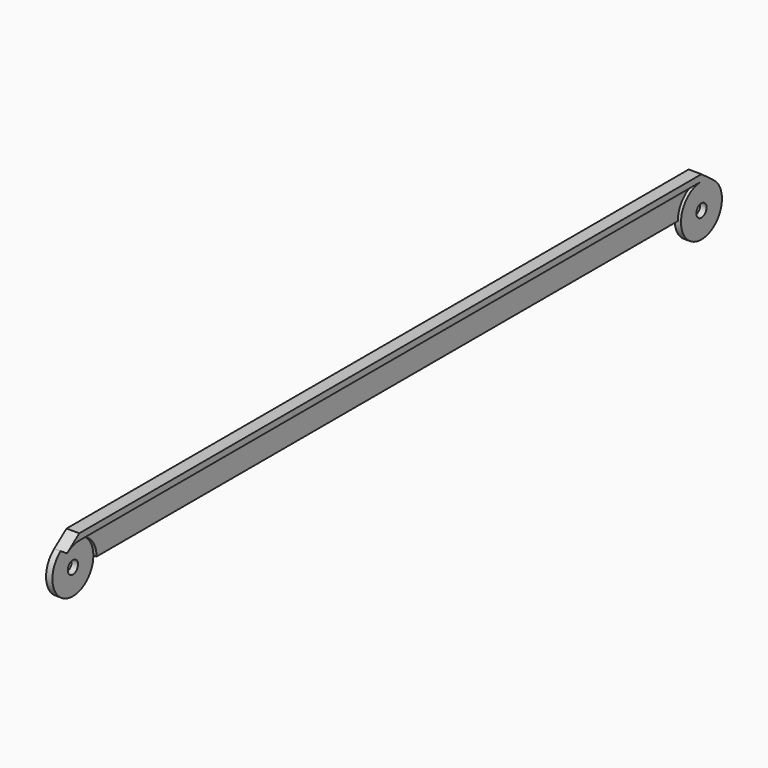
from build123d import *

# Parameters (mm, degrees)
F1_DEPTH = 2.5
F0_R     = 2.5
F2_DEPTH = 2.5
F3_DEPTH = 2.5
F4_DEPTH = 1.25


with BuildPart() as f1:
    # F0 (on Right) → F1 (new body, symmetric)
    with BuildSketch(Plane.YZ):
        with BuildLine():
            ThreePointArc((152.05, -2.5), (155.212278, -3.013167), (158.05, -4.5))
            Line((158.05, -4.5), (152.05, 0))
            Line((152.05, 0), (-152.05, 0))
            Line((-152.05, 0), (-158.05, -4.5))
            ThreePointArc((-158.05, -4.5), (-155.212278, -3.013167), (-152.05, -2.5))
            Line((-152.05, -2.5), (152.05, -2.5))
        make_face()
    extrude(amount=F1_DEPTH, both=True)

    # F0 (on Right) → F2 (join)
    with BuildSketch(Plane.YZ):
        with BuildLine():
            ThreePointArc((-158.05, -4.5), (-156.522136, -21.444272), (-142.05, -12.5))
            ThreePointArc((-142.05, -12.5), (-144.978932, -5.428932), (-152.05, -2.5))
            ThreePointArc((-152.05, -2.5), (-155.212278, -3.013167), (-158.05, -4.5))
        make_face()
        with Locations((-152.05, -12.5)):
            Circle(F0_R, mode=Mode.SUBTRACT)
    extrude(amount=-F2_DEPTH)

    # F0 (on Right) → F3 (join)
    with BuildSketch(Plane.YZ):
        with BuildLine():
            ThreePointArc((142.05, -12.5), (152.05, -22.5), (162.05, -12.5))
            ThreePointArc((162.05, -12.5), (160.994272, -8.027864), (158.05, -4.5))
            ThreePointArc((158.05, -4.5), (155.212278, -3.013167), (152.05, -2.5))
            ThreePointArc((152.05, -2.5), (144.978932, -5.428932), (142.05, -12.5))
        make_face()
        with Locations((152.05, -12.5)):
            Circle(F0_R, mode=Mode.SUBTRACT)
    extrude(amount=F3_DEPTH)

    # F0 (on Right) → F4 (join, symmetric)
    with BuildSketch(Plane.YZ):
        with BuildLine():
            Line((-142.05, -12.5), (142.05, -12.5))
            ThreePointArc((142.05, -12.5), (144.978932, -5.428932), (152.05, -2.5))
            Line((152.05, -2.5), (-152.05, -2.5))
            ThreePointArc((-152.05, -2.5), (-144.978932, -5.428932), (-142.05, -12.5))
        make_face()
    extrude(amount=F4_DEPTH, both=True)


solid = f1.part
